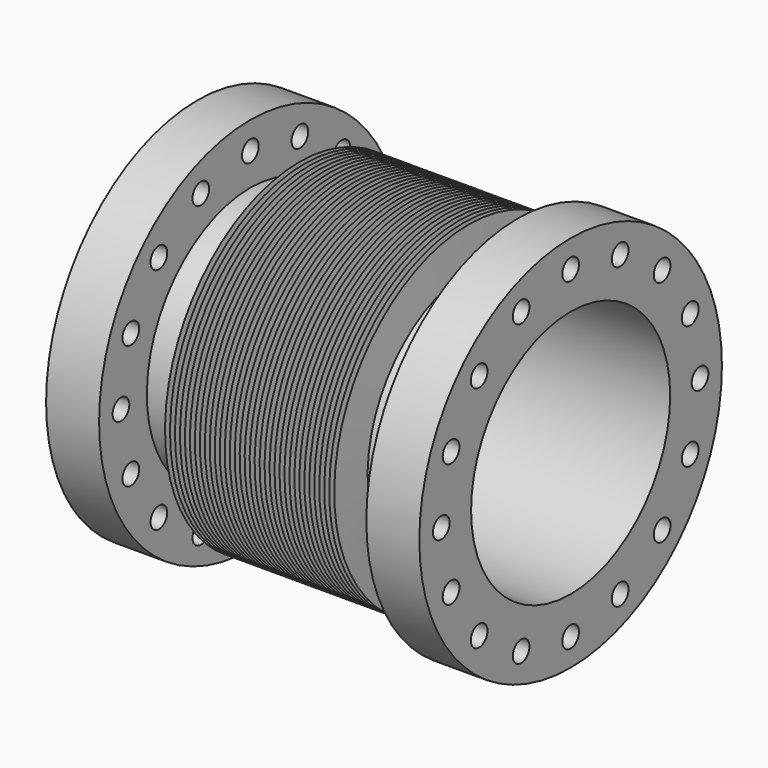
from build123d import *

# Parameters (mm, degrees)
F4_D     = 8.4
F4_DEPTH = 24
F4_TIP   = 2.5236145999
F6_D     = 8.4
F6_DEPTH = 24
F6_TIP   = 2.5236145999


with BuildPart() as f2:
    # F0 (on Front) → F2 (revolve)
    with BuildSketch(Plane.XZ):
        Polygon((0, 76), (0, 50), (150, 50), (150, 76), (128.7, 76), (128.7, 52), (110, 52), (109, 67.5), (108, 52), (107, 67.5), (106, 52), (105, 67.5), (104, 52), (103, 67.5), (102, 52), (101, 67.5), (100, 52), (99, 67.5), (98, 52), (97, 67.5), (96, 52), (95, 67.5), (94, 52), (93, 67.5), (92, 52), (91, 67.5), (90, 52), (89, 67.5), (88, 52), (87, 67.5), (86, 52), (85, 67.5), (84, 52), (83, 67.5), (82, 52), (81, 67.5), (80, 52), (79, 67.5), (78, 52), (77, 67.5), (76, 52), (75, 67.5), (74, 52), (73, 67.5), (72, 52), (71, 67.5), (70, 52), (69, 67.5), (68, 52), (67, 67.5), (66, 52), (65, 67.5), (64, 52), (63, 67.5), (62, 52), (61, 67.5), (60, 52), (59, 67.5), (58, 52), (57, 67.5), (56, 52), (55, 67.5), (54, 52), (53, 67.5), (52, 52), (51, 67.5), (50, 52), (49, 67.5), (48, 52), (47, 67.5), (46, 52), (45, 67.5), (44, 52), (43, 67.5), (42, 52), (41, 67.5), (40, 52), (21.3, 52), (21.3, 76), align=None)
    revolve(axis=Axis((37.5205911696, 0, 0), (1, 0, 0)))

    # F4
    with Locations(Plane(origin=(0, 0, 0), x_dir=(0, -1, 0), z_dir=(-1, 0, 0))):
        with Locations((-65, 0), (60.0521696132, -24.8744231037), (45.9619407771, -45.9619407771), (24.8744231037, -60.0521696132), (0, -65), (-24.8744231037, -60.0521696132), (-45.9619407771, -45.9619407771), (-60.0521696132, -24.8744231037), (-60.0521696132, 24.8744231037), (-45.9619407771, 45.9619407771), (-24.8744231037, 60.0521696132), (0, 65), (24.8744231037, 60.0521696132), (45.9619407771, 45.9619407771), (60.0521696132, 24.8744231037), (65, 0)):
            Hole(F4_D / 2, depth=F4_DEPTH)
            with Locations((0, 0, -(F4_DEPTH + F4_TIP / 2))):  # 118° drill point
                Cone(0, F4_D / 2, F4_TIP, mode=Mode.SUBTRACT)

    # F6
    with Locations(Plane.YZ.offset(150)):
        with Locations((65, 0), (-60.0521696132, 24.8744231037), (-45.9619407771, 45.9619407771), (-24.8744231037, 60.0521696132), (0, 65), (24.8744231037, 60.0521696132), (45.9619407771, 45.9619407771), (60.0521696132, 24.8744231037), (60.0521696132, -24.8744231037), (45.9619407771, -45.9619407771), (24.8744231037, -60.0521696132), (0, -65), (-24.8744231037, -60.0521696132), (-45.9619407771, -45.9619407771), (-60.0521696132, -24.8744231037), (-65, 0)):
            Hole(F6_D / 2, depth=F6_DEPTH)
            with Locations((0, 0, -(F6_DEPTH + F6_TIP / 2))):  # 118° drill point
                Cone(0, F6_D / 2, F6_TIP, mode=Mode.SUBTRACT)


solid = f2.part
